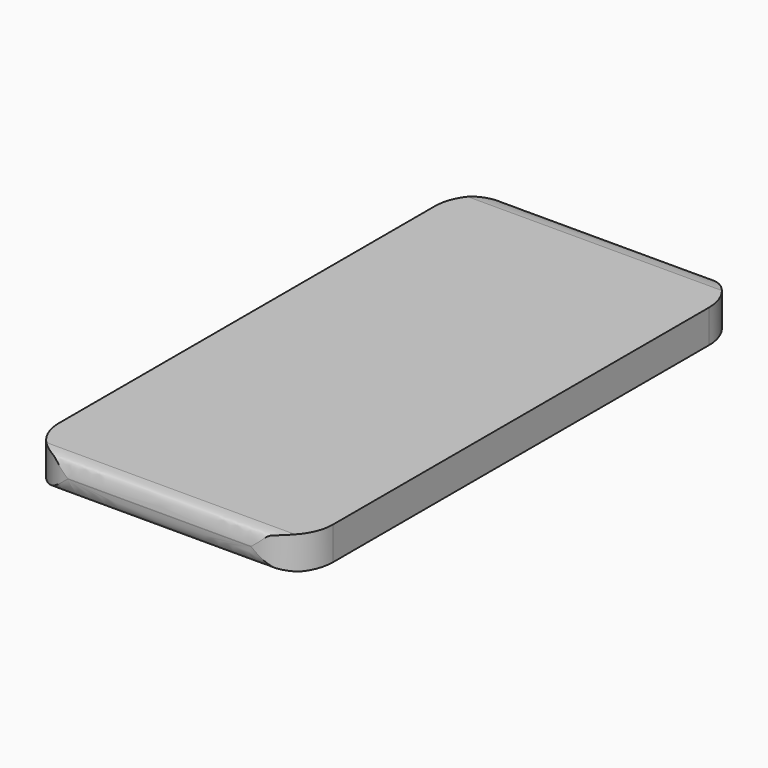
from build123d import *

# Parameters (mm, degrees)
F2_DEPTH = 8
F1_W     = 140.35
F1_H     = 13
F3_DEPTH = 66.151


with BuildPart() as f2:
    # F0 (on Top) → F2 (new body)
    with BuildSketch(Plane.XY):
        with BuildLine():
            Line((55.15, 0), (11, 0))
            ThreePointArc((11, 0), (3.2218254069, -3.2218254069), (0, -11))
            Line((0, -11), (0, -124.35))
            ThreePointArc((0, -124.35), (3.2218254069, -132.1281745931), (11, -135.35))
            Line((11, -135.35), (55.15, -135.35))
            ThreePointArc((55.15, -135.35), (62.9281745931, -132.1281745931), (66.15, -124.35))
            Line((66.15, -124.35), (66.15, -11))
            ThreePointArc((66.15, -11), (62.9281745931, -3.2218254069), (55.15, 0))
        make_face()
    extrude(amount=-F2_DEPTH)

    # F1 (on Right) → F3 (cut, through all)
    with BuildSketch(Plane.YZ):
        with Locations((-67.675, -4)):
            Rectangle(F1_W, F1_H)
        with BuildLine():
            add(Edge.make_bspline(
                [(-4.4592134655, -8), (-4.06301805, -7.9890852323), (-3.3712527222, -7.9700716753), (-2.7478896673, -7.9318646194), (-2.2776460323, -7.8960149333), (-1.955490882, -7.8540687977), (-1.3764688187, -7.6279458038), (-1.0058021098, -7.2412590367), (-0.509107614, -6.5433735987), (-0.2020127137, -5.5553389321), (-0.072719967, -4.8774700301), (0.0507572948, -3.9940854367), (-0.1183380621, -2.7020797522), (-0.2937701085, -1.9498519171), (-0.4569124907, -1.3668897776), (-0.6219345505, -0.9904767231), (-0.7604331177, -0.7540001923), (-1.092813841, -0.5715158726), (-1.669943524, -0.3824442889), (-2.297165175, -0.2427465995), (-2.9572891677, -0.106596039), (-3.7085364375, -0.033781798), (-3.9989884252, -0.0100723112), (-4.1223084554, 0)],
                knots=[0, 0, 0, 0, 0.0629025505, 0.1101243544, 0.1498849525, 0.1841277926, 0.2299330764, 0.2736201973, 0.3286871161, 0.3893399624, 0.4386669737, 0.4948408022, 0.5631101084, 0.6162543489, 0.6621674405, 0.7000070526, 0.7301989368, 0.7659514424, 0.8126044493, 0.8606247629, 0.9102619726, 0.9619967841, 1, 1, 1, 1], degree=3))
            Line((-4.4592134655, -8), (-130.4927617311, -8))
            add(Edge.make_bspline(
                [(-132.0013850927, 0), (-132.5091004, -0.0291223572), (-133.359923634, -0.0777808175), (-133.9875104467, -0.2411891025), (-134.5033471073, -0.3570792687), (-134.7768844328, -0.71876807), (-134.9624015548, -1.2278844814), (-135.0822110945, -1.6920046914), (-135.2708920677, -2.5390315089), (-135.4001021219, -3.8305165021), (-135.2476952476, -5.1627364304), (-135.0115593833, -6.0386383785), (-134.6540542536, -6.7267371139), (-134.3171192165, -7.1885208292), (-133.7826291508, -7.4301593814), (-132.9914745191, -7.6525996573), (-132.134659965, -7.8667423393), (-131.4259328768, -7.9277495694), (-130.6984624247, -8.0082345384), (-130.5451697223, -8.0020962677), (-130.4927617311, -8)],
                knots=[0, 0, 0, 0, 0.0770414398, 0.1294839491, 0.1751242824, 0.2179834988, 0.265561786, 0.3106421717, 0.3706717691, 0.446160301, 0.5221173167, 0.5844477807, 0.6413992126, 0.6897545092, 0.7386830269, 0.7983206902, 0.8597371077, 0.9165070016, 0.9715362444, 1, 1, 1, 1], degree=3))
            Line((-132.0013850927, 0), (-4.1223084554, 0))
        make_face(mode=Mode.SUBTRACT)
    extrude(amount=F3_DEPTH, mode=Mode.SUBTRACT)


solid = f2.part
